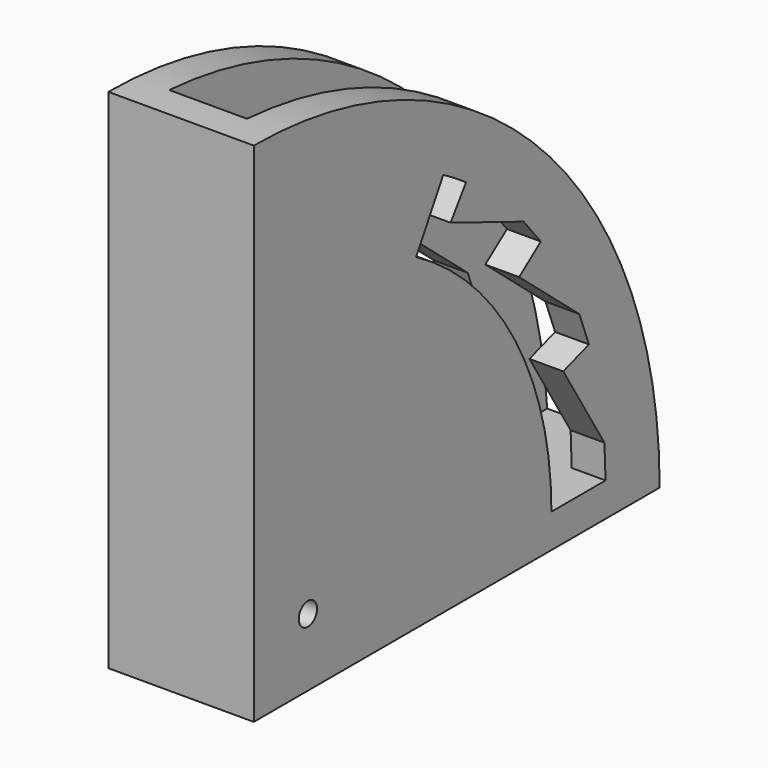
from build123d import *

# Parameters (mm, degrees)
F0_W     = 43
F0_H     = 150
F1_DEPTH = 150
F2_W     = 23
F2_H     = 140
F3_DEPTH = 140
F5_DEPTH = 43.001
F7_D     = 6.7564
F9_DEPTH = 43.001


with BuildPart() as f1:
    # F0 (on Top) → F1 (new body)
    with BuildSketch(Plane.XY):
        Rectangle(F0_W, F0_H)
    extrude(amount=F1_DEPTH)

    # F2 (on face) → F3 (cut)
    with BuildSketch(Plane.XY.offset(150)):
        with Locations((0, 5)):
            Rectangle(F2_W, F2_H)
    extrude(amount=-F3_DEPTH, mode=Mode.SUBTRACT)

    # F4 (on face) → F5 (cut, through all)
    with BuildSketch(Plane.YZ.offset(21.5)):
        with BuildLine():
            Line((75, 150), (-75, 150))
            ThreePointArc((-75, 150), (31.066017178, 106.066017178), (75, 0))
            Line((75, 0), (75, 150))
        make_face()
    extrude(amount=-F5_DEPTH, mode=Mode.SUBTRACT)

    # F7 (through all)
    with Locations(Plane.YZ.offset(21.5)):
        with Locations((-55, 20)):
            Hole(F7_D / 2)

    # F8 (on face) → F9 (cut, through all)
    with BuildSketch(Plane.YZ.offset(21.5)):
        with BuildLine():
            Line((-5, 113.9230484541), (-15, 96.6025403784))
            ThreePointArc((-15, 96.6025403784), (21.6025403784, 60), (35, 10))
            Line((35, 10), (55, 10))
            Line((55, 10), (54.5824738826, 20.0015968781))
            Line((54.5824738826, 20.0015968781), (39.3695273594, 44.7419308441))
            Line((39.3695273594, 44.7419308441), (48.8576662103, 47.9002881935))
            Line((48.8576662103, 47.9002881935), (45.3067125626, 57.248589012))
            Line((45.3067125626, 57.248589012), (23.0601812824, 75.9196819812))
            Line((23.0601812824, 75.9196819812), (31.0656523081, 81.9123803431))
            Line((31.0656523081, 81.9123803431), (24.7445969083, 89.6612033914))
            Line((24.7445969083, 89.6612033914), (-2.2593001309, 100.3526678075))
            Line((-2.2593001309, 100.3526678075), (3.4443998572, 108.5665466991))
            ThreePointArc((3.4443998572, 108.5665466991), (-0.7219789397, 111.3327982865), (-5, 113.9230484541))
        make_face()
    extrude(amount=-F9_DEPTH, mode=Mode.SUBTRACT)


solid = f1.part
